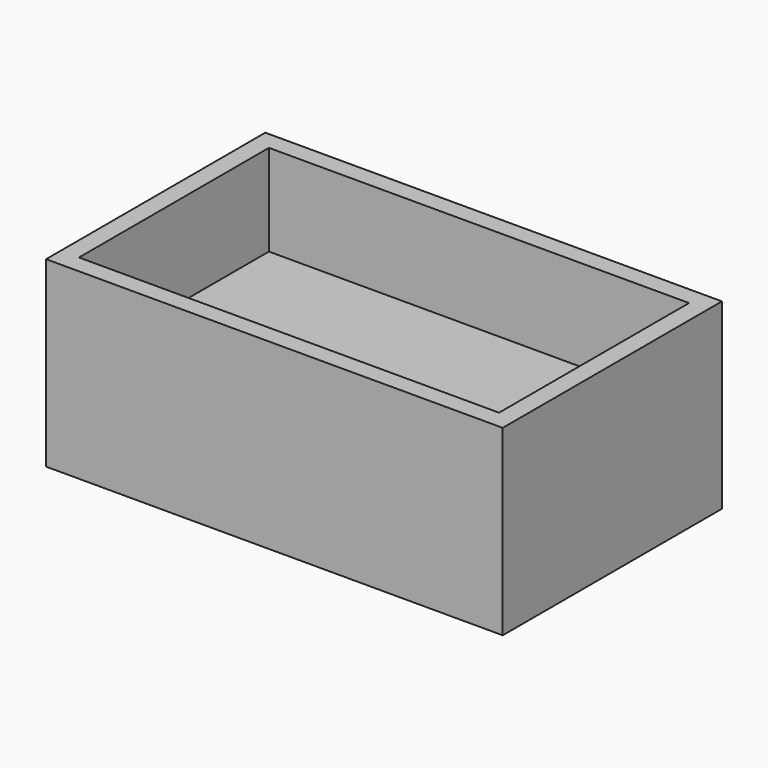
from build123d import *

# Parameters (mm, degrees)
SKETCH_W     = 50
SKETCH_H     = 30
PAD_DEPTH    = 20
SKETCH001_W  = 46
SKETCH001_H  = 26
POCKET_DEPTH = 10


with BuildPart() as part:
    # Sketch → Pad (new body)
    with BuildSketch(Plane.XY):
        Rectangle(SKETCH_W, SKETCH_H)
    extrude(amount=PAD_DEPTH)

    # Sketch001 (on Face6 of Pad) → Pocket (cut)
    with BuildSketch(Plane.XY.offset(20)):
        Rectangle(SKETCH001_W, SKETCH001_H)
    extrude(amount=-POCKET_DEPTH, mode=Mode.SUBTRACT)


solid = part.part
